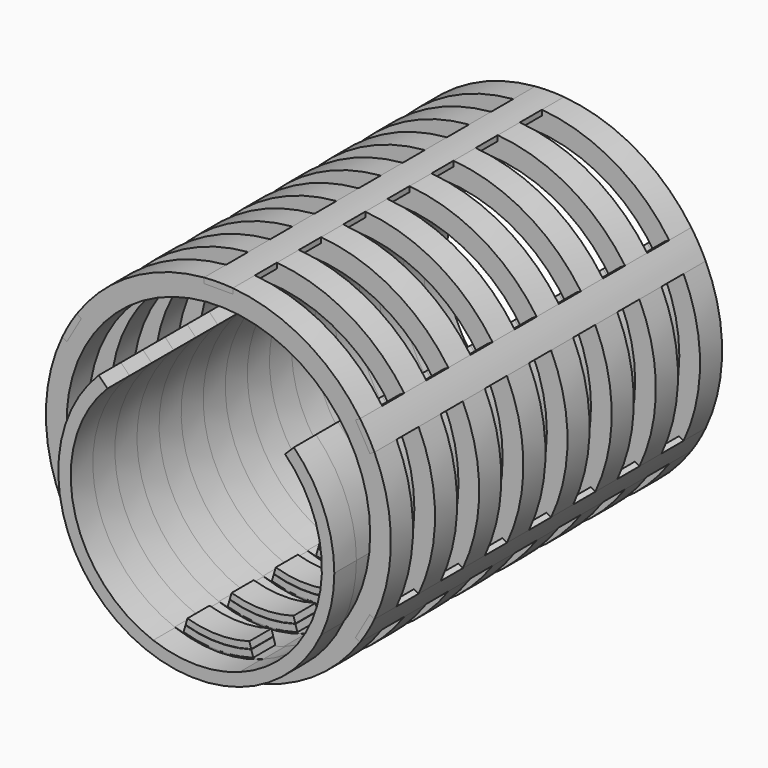
from build123d import *

# Parameters (mm, degrees)
F1_DEPTH = 25.4
F2_DEPTH = 25.4
F3_DEPTH = 25.4
F0_R     = 139.7
F4_DEPTH = 25.4
F6_DEPTH = 25.4
F7_DEPTH = 381


with BuildPart() as f1:
    # F0 (on Front) → F1 (new body)
    with BuildSketch(Plane.XZ):
        with BuildLine():
            Line((-28.4923587096, -97.5230510965), (-30.1840925079, -103.3134822553))
            ThreePointArc((-30.1840925079, -103.3134822553), (0, -107.6325), (30.1840925079, -103.3134822553))
            Line((30.1840925079, -103.3134822553), (28.4923587096, -97.5230510965))
            ThreePointArc((28.4923587096, -97.5230510965), (0, -101.6), (-28.4923587096, -97.5230510965))
        make_face()
    extrude(amount=-F1_DEPTH)


with BuildPart() as f2:
    # F0 (on Front) → F2 (new body)
    with BuildSketch(Plane.XZ):
        with BuildLine():
            ThreePointArc((-5.741e-07, -114.3), (16.1901922275, -113.1475482529), (32.0539035483, -109.7134324835))
            Line((32.0539035483, -109.7134324835), (30.2731311289, -103.61824179))
            ThreePointArc((30.2731311289, -103.61824179), (0, -107.95), (-30.2731311289, -103.61824179))
            Line((-30.2731311289, -103.61824179), (-32.0539035483, -109.7134324835))
            ThreePointArc((-32.0539035483, -109.7134324835), (-16.1901927959, -113.1475481715), (-5.741e-07, -114.3))
        make_face()
    extrude(amount=-F2_DEPTH)


with BuildPart() as f3:
    # F0 (on Front) → F3 (new body)
    with BuildSketch(Plane.XZ):
        with BuildLine():
            ThreePointArc((-114.959555388, -53.975), (-81.9829668083, -87.7144692482), (-39.6562329834, -108.55325))
            ThreePointArc((-39.6562329834, -108.55325), (-112.8453651298, -24.94691301), (-81.7203307017, 81.7203307017))
            Line((-81.7203307017, 81.7203307017), (-89.8025612107, 89.8025612107))
            ThreePointArc((-89.8025612107, 89.8025612107), (-125.099471923, 21.8888584578), (-114.959555388, -53.975))
        make_face()
    extrude(amount=-F3_DEPTH)


with BuildPart() as f3b:
    # F0 (on Front) → F3, piece 2 (new body)
    with BuildSketch(Plane.XZ):
        with BuildLine():
            ThreePointArc((115.57, 0), (94.7087528846, -66.2319939837), (39.6562329834, -108.55325))
            ThreePointArc((39.6562329834, -108.55325), (81.9829668083, -87.7144692482), (114.959555388, -53.975))
            ThreePointArc((114.959555388, -53.975), (123.9533451228, -27.6508269834), (127, 0))
            ThreePointArc((127, 0), (117.3327006289, 48.6007959104), (89.8025612107, 89.8025612107))
            Line((89.8025612107, 89.8025612107), (81.7203307017, 81.7203307017))
            ThreePointArc((81.7203307017, 81.7203307017), (106.7727575723, 44.2267242784), (115.57, 0))
        make_face()
    extrude(amount=-F3_DEPTH)


with BuildPart() as f4:
    # F0 (on Front) → F4 (new body)
    with BuildSketch(Plane.XZ):
        with BuildLine():
            ThreePointArc((143.6179180992, -67.6421178027), (154.9207975035, -34.6570195036), (158.75, 0))
            ThreePointArc((158.75, 0), (154.9207975035, 34.6570195036), (143.6179180992, 67.6421178027))
            Line((143.6179180992, 67.6421178027), (139.4026161438, 65.208412084))
            Line((139.4026161438, 65.208412084), (126.1734494771, 88.1220008925))
            Line((126.1734494771, 88.1220008925), (130.3887514326, 90.5557066112))
            ThreePointArc((130.3887514326, 90.5557066112), (79.375, 137.4815328508), (13.2291666667, 158.1978244139))
            Line((13.2291666667, 158.1978244139), (13.2291666667, 153.3304129766))
            Line((13.2291666667, 153.3304129766), (-13.2291666667, 153.3304129766))
            Line((-13.2291666667, 153.3304129766), (-13.2291666667, 158.1978244139))
            ThreePointArc((-13.2291666667, 158.1978244139), (-79.375, 137.4815328508), (-130.3887514326, 90.5557066112))
            Line((-130.3887514326, 90.5557066112), (-126.1734494771, 88.1220008925))
            Line((-126.1734494771, 88.1220008925), (-139.4026161438, 65.208412084))
            Line((-139.4026161438, 65.208412084), (-143.6179180992, 67.6421178027))
            ThreePointArc((-143.6179180992, 67.6421178027), (-158.75, 0), (-143.6179180992, -67.6421178027))
            Line((-143.6179180992, -67.6421178027), (-139.4026161438, -65.208412084))
            Line((-139.4026161438, -65.208412084), (-126.1734494771, -88.1220008925))
            Line((-126.1734494771, -88.1220008925), (-130.3887514326, -90.5557066112))
            ThreePointArc((-130.3887514326, -90.5557066112), (-79.375, -137.4815328508), (-13.2291666667, -158.1978244139))
            Line((-13.2291666667, -158.1978244139), (-13.2291666667, -153.3304129766))
            Line((-13.2291666667, -153.3304129766), (13.2291666667, -153.3304129766))
            Line((13.2291666667, -153.3304129766), (13.2291666667, -158.1978244139))
            ThreePointArc((13.2291666667, -158.1978244139), (79.375, -137.4815328508), (130.3887514326, -90.5557066112))
            Line((130.3887514326, -90.5557066112), (126.1734494771, -88.1220008925))
            Line((126.1734494771, -88.1220008925), (139.4026161438, -65.208412084))
            Line((139.4026161438, -65.208412084), (143.6179180992, -67.6421178027))
        make_face()
        Circle(F0_R, mode=Mode.SUBTRACT)
    extrude(amount=-F4_DEPTH)


with BuildPart() as f4_1:
    # F5: moved
    add(f4.part.moved(Location((0, 0, 25.4))))


with BuildPart() as f6:
    # F0 (on Front) → F6 (new body)
    with BuildSketch(Plane.XZ):
        with BuildLine():
            ThreePointArc((-114.959555388, -53.975), (-81.9829668083, -87.7144692482), (-39.6562329834, -108.55325))
            ThreePointArc((-39.6562329834, -108.55325), (-112.8453651298, -24.94691301), (-81.7203307017, 81.7203307017))
            Line((-81.7203307017, 81.7203307017), (-89.8025612107, 89.8025612107))
            ThreePointArc((-89.8025612107, 89.8025612107), (-125.099471923, 21.8888584578), (-114.959555388, -53.975))
        make_face()
        with BuildLine():
            ThreePointArc((115.57, 0), (94.7087528846, -66.2319939837), (39.6562329834, -108.55325))
            ThreePointArc((39.6562329834, -108.55325), (81.9829668083, -87.7144692482), (114.959555388, -53.975))
            ThreePointArc((114.959555388, -53.975), (123.9533451228, -27.6508269834), (127, 0))
            ThreePointArc((127, 0), (117.3327006289, 48.6007959104), (89.8025612107, 89.8025612107))
            Line((89.8025612107, 89.8025612107), (81.7203307017, 81.7203307017))
            ThreePointArc((81.7203307017, 81.7203307017), (106.7727575723, 44.2267242784), (115.57, 0))
        make_face()
        with BuildLine():
            ThreePointArc((39.6562329834, -108.55325), (0, -115.57), (-39.6562329834, -108.55325))
            ThreePointArc((-39.6562329834, -108.55325), (-81.9829668083, -87.7144692482), (-114.959555388, -53.975))
            ThreePointArc((-114.959555388, -53.975), (0, -127), (114.959555388, -53.975))
            ThreePointArc((114.959555388, -53.975), (81.9829668083, -87.7144692482), (39.6562329834, -108.55325))
        make_face()
    extrude(amount=F6_DEPTH)


with BuildPart() as f7:
    # F0 (on Front) → F7 (new body)
    with BuildSketch(Plane.XZ):
        with BuildLine():
            Line((139.4026161438, 65.208412084), (143.6179180992, 67.6421178027))
            ThreePointArc((143.6179180992, 67.6421178027), (137.4815328508, 79.375), (130.3887514326, 90.5557066112))
            Line((130.3887514326, 90.5557066112), (126.1734494771, 88.1220008925))
            Line((126.1734494771, 88.1220008925), (139.4026161438, 65.208412084))
        make_face()
    extrude(amount=F7_DEPTH)


with BuildPart() as f7b:
    # F0 (on Front) → F7, piece 2 (new body)
    with BuildSketch(Plane.XZ):
        with BuildLine():
            Line((13.2291666667, 153.3304129766), (13.2291666667, 158.1978244139))
            ThreePointArc((13.2291666667, 158.1978244139), (0, 158.75), (-13.2291666667, 158.1978244139))
            Line((-13.2291666667, 158.1978244139), (-13.2291666667, 153.3304129766))
            Line((-13.2291666667, 153.3304129766), (13.2291666667, 153.3304129766))
        make_face()
    extrude(amount=F7_DEPTH)


with BuildPart() as f7c:
    # F0 (on Front) → F7, piece 3 (new body)
    with BuildSketch(Plane.XZ):
        with BuildLine():
            Line((-126.1734494771, 88.1220008925), (-130.3887514326, 90.5557066112))
            ThreePointArc((-130.3887514326, 90.5557066112), (-137.4815328508, 79.375), (-143.6179180992, 67.6421178027))
            Line((-143.6179180992, 67.6421178027), (-139.4026161438, 65.208412084))
            Line((-139.4026161438, 65.208412084), (-126.1734494771, 88.1220008925))
        make_face()
    extrude(amount=F7_DEPTH)


with BuildPart() as f7d:
    # F0 (on Front) → F7, piece 4 (new body)
    with BuildSketch(Plane.XZ):
        with BuildLine():
            ThreePointArc((-13.2291666667, -158.1978244139), (0, -158.75), (13.2291666667, -158.1978244139))
            Line((13.2291666667, -158.1978244139), (13.2291666667, -153.3304129766))
            Line((13.2291666667, -153.3304129766), (-13.2291666667, -153.3304129766))
            Line((-13.2291666667, -153.3304129766), (-13.2291666667, -158.1978244139))
        make_face()
    extrude(amount=F7_DEPTH)


with BuildPart() as f7e:
    # F0 (on Front) → F7, piece 5 (new body)
    with BuildSketch(Plane.XZ):
        with BuildLine():
            ThreePointArc((-143.6179180992, -67.6421178027), (-137.4815328508, -79.375), (-130.3887514326, -90.5557066112))
            Line((-130.3887514326, -90.5557066112), (-126.1734494771, -88.1220008925))
            Line((-126.1734494771, -88.1220008925), (-139.4026161438, -65.208412084))
            Line((-139.4026161438, -65.208412084), (-143.6179180992, -67.6421178027))
        make_face()
    extrude(amount=F7_DEPTH)


with BuildPart() as f7f:
    # F0 (on Front) → F7, piece 6 (new body)
    with BuildSketch(Plane.XZ):
        with BuildLine():
            ThreePointArc((130.3887514326, -90.5557066112), (137.4815328508, -79.375), (143.6179180992, -67.6421178027))
            Line((143.6179180992, -67.6421178027), (139.4026161438, -65.208412084))
            Line((139.4026161438, -65.208412084), (126.1734494771, -88.1220008925))
            Line((126.1734494771, -88.1220008925), (130.3887514326, -90.5557066112))
        make_face()
    extrude(amount=F7_DEPTH)


with BuildPart() as f7c_1:
    # F8: moved
    add(f7c.part.moved(Location((0, 381, 25.4))))


with BuildPart() as f7b_1:
    # F8: moved
    add(f7b.part.moved(Location((0, 381, 25.4))))


with BuildPart() as f7_1:
    # F8: moved
    add(f7.part.moved(Location((0, 381, 25.4))))


with BuildPart() as f7e_1:
    # F8: moved
    add(f7e.part.moved(Location((0, 381, 25.4))))


with BuildPart() as f7d_1:
    # F8: moved
    add(f7d.part.moved(Location((0, 381, 25.4))))


with BuildPart() as f7f_1:
    # F8: moved
    add(f7f.part.moved(Location((0, 381, 25.4))))


with BuildPart() as f9_1:
    # F9: copy of F6
    add(f6.part.moved(Location((0, 50.8, 0))))


with BuildPart() as f9_2:
    # F9: copy of F3
    add(f3.part.moved(Location((0, 50.8, 0))))


with BuildPart() as f9_3:
    # F9: copy of F3b
    add(f3b.part.moved(Location((0, 50.8, 0))))


with BuildPart() as f9_4:
    # F9: copy of F4
    add(f4_1.part.moved(Location((0, 50.8, 0))))


with BuildPart() as f9_5:
    # F9: copy of F1
    add(f1.part.moved(Location((0, 50.8, 0))))


with BuildPart() as f9_6:
    # F9: copy of F2
    add(f2.part.moved(Location((0, 50.8, 0))))


with BuildPart() as f10_1:
    # F10: copy of F6
    add(f6.part.moved(Location((0, 101.6, 0))))


with BuildPart() as f10_2:
    # F10: copy of F3
    add(f3.part.moved(Location((0, 101.6, 0))))


with BuildPart() as f10_3:
    # F10: copy of F3b
    add(f3b.part.moved(Location((0, 101.6, 0))))


with BuildPart() as f10_4:
    # F10: copy of F9_1
    add(f9_1.part.moved(Location((0, 101.6, 0))))


with BuildPart() as f10_5:
    # F10: copy of F9_2
    add(f9_2.part.moved(Location((0, 101.6, 0))))


with BuildPart() as f10_6:
    # F10: copy of F9_3
    add(f9_3.part.moved(Location((0, 101.6, 0))))


with BuildPart() as f10_7:
    # F10: copy of F4
    add(f4_1.part.moved(Location((0, 101.6, 0))))


with BuildPart() as f10_8:
    # F10: copy of F9_4
    add(f9_4.part.moved(Location((0, 101.6, 0))))


with BuildPart() as f10_9:
    # F10: copy of F1
    add(f1.part.moved(Location((0, 101.6, 0))))


with BuildPart() as f10_10:
    # F10: copy of F2
    add(f2.part.moved(Location((0, 101.6, 0))))


with BuildPart() as f10_11:
    # F10: copy of F9_5
    add(f9_5.part.moved(Location((0, 101.6, 0))))


with BuildPart() as f10_12:
    # F10: copy of F9_6
    add(f9_6.part.moved(Location((0, 101.6, 0))))


with BuildPart() as f11_1:
    # F11: copy of F6
    add(f6.part.moved(Location((0, 203.2, 0))))


with BuildPart() as f11_2:
    # F11: copy of F3
    add(f3.part.moved(Location((0, 203.2, 0))))


with BuildPart() as f11_3:
    # F11: copy of F3b
    add(f3b.part.moved(Location((0, 203.2, 0))))


with BuildPart() as f11_4:
    # F11: copy of F9_1
    add(f9_1.part.moved(Location((0, 203.2, 0))))


with BuildPart() as f11_5:
    # F11: copy of F9_3
    add(f9_3.part.moved(Location((0, 203.2, 0))))


with BuildPart() as f11_6:
    # F11: copy of F9_2
    add(f9_2.part.moved(Location((0, 203.2, 0))))


with BuildPart() as f11_7:
    # F11: copy of F10_1
    add(f10_1.part.moved(Location((0, 203.2, 0))))


with BuildPart() as f11_8:
    # F11: copy of F10_2
    add(f10_2.part.moved(Location((0, 203.2, 0))))


with BuildPart() as f11_9:
    # F11: copy of F10_3
    add(f10_3.part.moved(Location((0, 203.2, 0))))


with BuildPart() as f11_10:
    # F11: copy of F10_4
    add(f10_4.part.moved(Location((0, 203.2, 0))))


with BuildPart() as f11_11:
    # F11: copy of F10_6
    add(f10_6.part.moved(Location((0, 203.2, 0))))


with BuildPart() as f11_12:
    # F11: copy of F10_5
    add(f10_5.part.moved(Location((0, 203.2, 0))))


with BuildPart() as f11_13:
    # F11: copy of F4
    add(f4_1.part.moved(Location((0, 203.2, 0))))


with BuildPart() as f11_14:
    # F11: copy of F9_4
    add(f9_4.part.moved(Location((0, 203.2, 0))))


with BuildPart() as f11_15:
    # F11: copy of F10_7
    add(f10_7.part.moved(Location((0, 203.2, 0))))


with BuildPart() as f11_16:
    # F11: copy of F10_8
    add(f10_8.part.moved(Location((0, 203.2, 0))))


with BuildPart() as f11_17:
    # F11: copy of F1
    add(f1.part.moved(Location((0, 203.2, 0))))


with BuildPart() as f11_18:
    # F11: copy of F2
    add(f2.part.moved(Location((0, 203.2, 0))))


with BuildPart() as f11_19:
    # F11: copy of F9_5
    add(f9_5.part.moved(Location((0, 203.2, 0))))


with BuildPart() as f11_20:
    # F11: copy of F9_6
    add(f9_6.part.moved(Location((0, 203.2, 0))))


with BuildPart() as f11_21:
    # F11: copy of F10_9
    add(f10_9.part.moved(Location((0, 203.2, 0))))


with BuildPart() as f11_22:
    # F11: copy of F10_10
    add(f10_10.part.moved(Location((0, 203.2, 0))))


with BuildPart() as f11_23:
    # F11: copy of F10_11
    add(f10_11.part.moved(Location((0, 203.2, 0))))


with BuildPart() as f11_24:
    # F11: copy of F10_12
    add(f10_12.part.moved(Location((0, 203.2, 0))))


with BuildPart() as f12_1:
    # F12: copy of F6
    add(f6.part.moved(Location((0, 406.4, 0))))


solid = Compound([f1.part, f2.part, f3.part, f3b.part, f4_1.part, f6.part, f7c_1.part, f7b_1.part, f7_1.part, f7e_1.part, f7d_1.part, f7f_1.part, f9_1.part, f9_2.part, f9_3.part, f9_4.part, f9_5.part, f9_6.part, f10_1.part, f10_2.part, f10_3.part, f10_4.part, f10_5.part, f10_6.part, f10_7.part, f10_8.part, f10_9.part, f10_10.part, f10_11.part, f10_12.part, f11_1.part, f11_2.part, f11_3.part, f11_4.part, f11_5.part, f11_6.part, f11_7.part, f11_8.part, f11_9.part, f11_10.part, f11_11.part, f11_12.part, f11_13.part, f11_14.part, f11_15.part, f11_16.part, f11_17.part, f11_18.part, f11_19.part, f11_20.part, f11_21.part, f11_22.part, f11_23.part, f11_24.part, f12_1.part])
